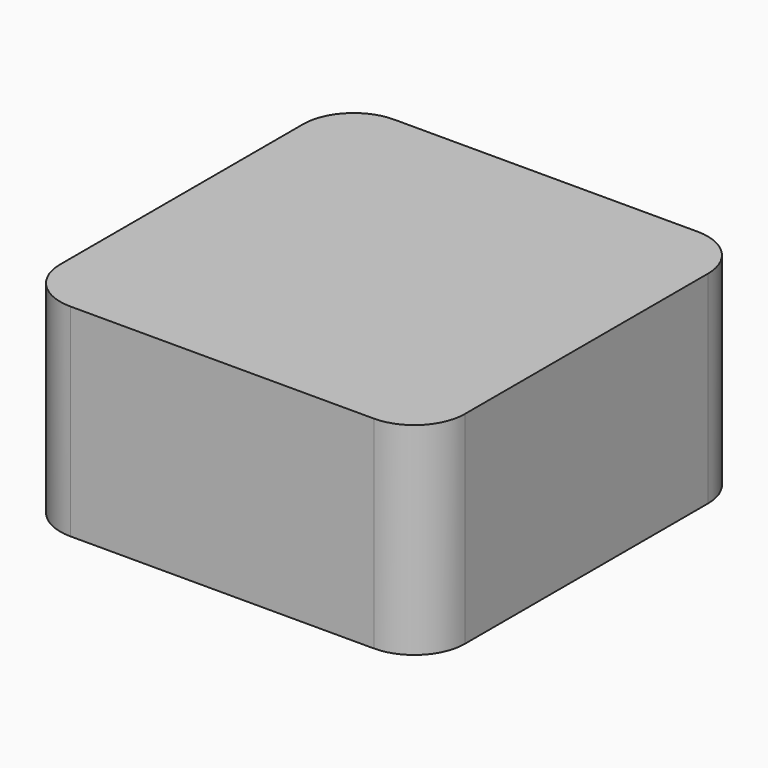
from build123d import *

# Parameters (mm, degrees)
F1_DEPTH = 12.7
F2_R     = 6.35


with BuildPart() as f1:
    # F0 (on Top) → F1 (new body, symmetric)
    with BuildSketch(Plane.XY):
        Polygon((25.4, 25.4), (0, 25.4), (-25.4, 25.4), (-25.4, -25.4), (0, -25.4), (25.4, -25.4), align=None)
    extrude(amount=F1_DEPTH, both=True)

    # F2
    f2_edges = [f1.edges().sort_by_distance(p)[0] for p in [
        (-25.4, 25.4, 0),
        (25.4, 25.4, 0),
        (25.4, -25.4, 0),
        (-25.4, -25.4, 0),
    ]]
    fillet(f2_edges, radius=F2_R)


solid = f1.part
